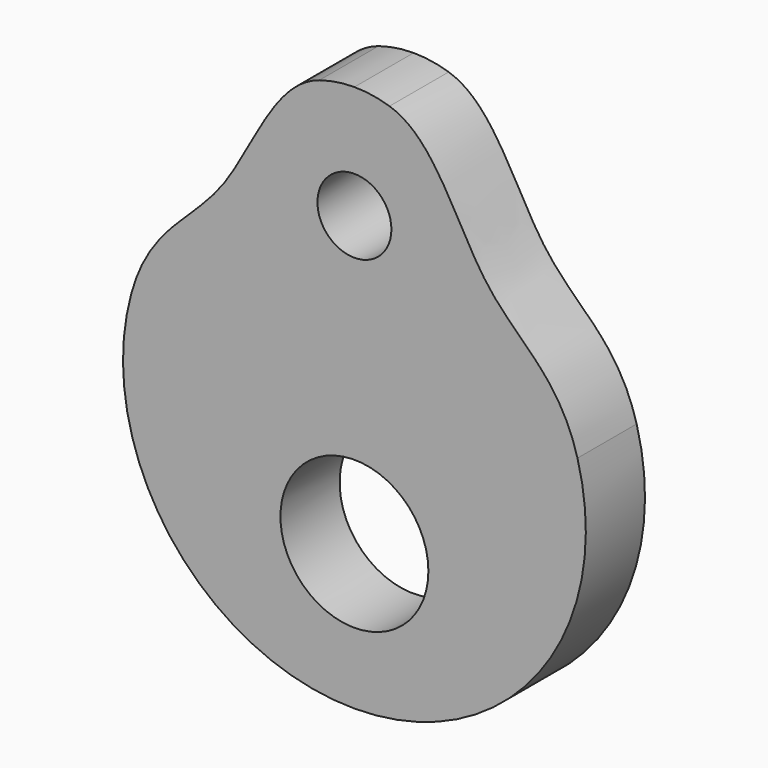
from build123d import *

# Parameters (mm, degrees)
F1_DEPTH = 10
F2_R     = 10
F3_DEPTH = 25
F4_R     = 5
F5_DEPTH = 25


with BuildPart() as f1:
    # F0 (on Front) → F1 (new body)
    with BuildSketch(Plane.XZ):
        with BuildLine():
            ThreePointArc((4.7458544305, 33.6244736514), (2.4011029044, 34.1735286962), (0, 34.3579900832))
            ThreePointArc((0, 34.3579900832), (-2.4011029044, 34.1735286962), (-4.7458544305, 33.6244736514))
            add(Edge.make_bspline(
                [(-4.7458544305, 33.6244736514), (-10.9520952223, 31.6590568221), (-16.416283898, 13.4392161658), (-27.7037138128, 8.8834728939), (-30.1568813613, 0)],
                knots=[0, 0, 0, 0, 0.5039121185, 1, 1, 1, 1], degree=3))
            ThreePointArc((-30.1568813613, 0), (-24.893077801, -27.2783942003), (0, -39.6134294928))
            ThreePointArc((0, -39.6134294928), (24.893077801, -27.2783942003), (30.1568813613, 0))
            add(Edge.make_bspline(
                [(4.7458544305, 33.6244736514), (10.9520952223, 31.6590568221), (16.416283898, 13.4392161658), (27.7037138128, 8.8834728939), (30.1568813613, 0)],
                knots=[0, 0, 0, 0, 0.5039121185, 1, 1, 1, 1], degree=3))
        make_face()
    extrude(amount=F1_DEPTH)

    # F2 (on face) → F3 (cut)
    with BuildSketch(Plane.XZ.offset(10)):
        with Locations((0, -20)):
            Circle(F2_R)
    extrude(amount=-F3_DEPTH, mode=Mode.SUBTRACT)

    # F4 (on face) → F5 (cut)
    with BuildSketch(Plane.XZ.offset(10)):
        with Locations((0, 19.0365062821)):
            Circle(F4_R)
    extrude(amount=-F5_DEPTH, mode=Mode.SUBTRACT)


solid = f1.part
